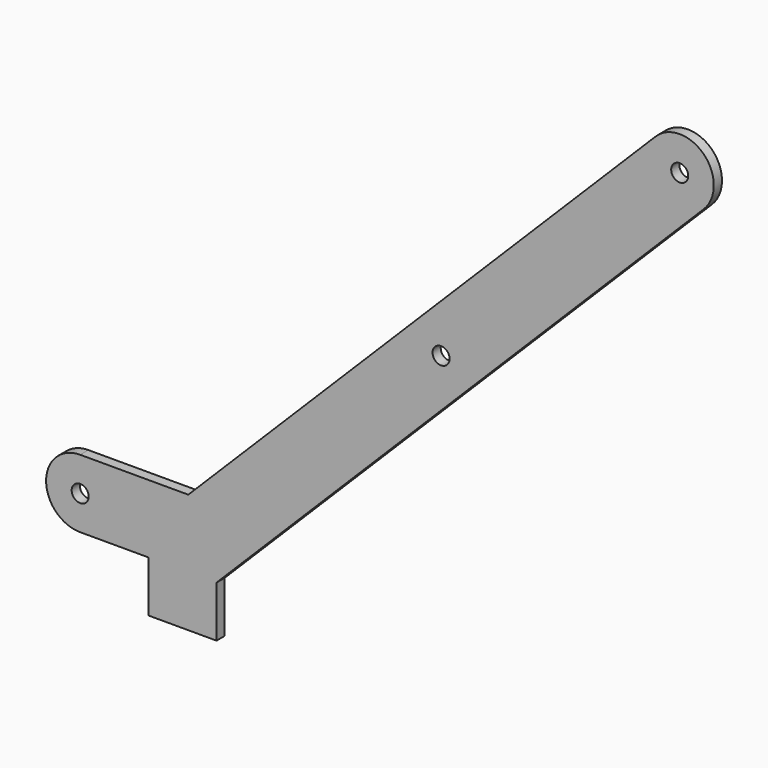
from build123d import *

# Parameters (mm, degrees)
F0_R     = 2.5
F1_DEPTH = 1.5


with BuildPart() as f1:
    # F0 (on Front) → F1 (new body, symmetric)
    with BuildSketch(Plane.XZ):
        with BuildLine():
            Line((-4.142136, 10), (-35.857864, 10))
            ThreePointArc((-35.857864, 10), (-45.857864, 0), (-35.857864, -10))
            Line((-35.857864, -10), (-15.857864, -10))
            Line((-15.857864, -10), (-15.857864, -25))
            Line((-15.857864, -25), (4.142136, -25))
            Line((4.142136, -25), (4.142136, -10))
            Line((4.142136, -10), (147.071068, 132.928932))
            ThreePointArc((147.071068, 132.928932), (147.071068, 147.071068), (132.928932, 147.071068))
            Line((132.928932, 147.071068), (-4.142136, 10))
        make_face()
        with Locations((-35.857864, 0)):
            Circle(F0_R, mode=Mode.SUBTRACT)
        with Locations((70, 70)):
            Circle(F0_R, mode=Mode.SUBTRACT)
        with Locations((140, 140)):
            Circle(F0_R, mode=Mode.SUBTRACT)
    extrude(amount=F1_DEPTH, both=True)


solid = f1.part
